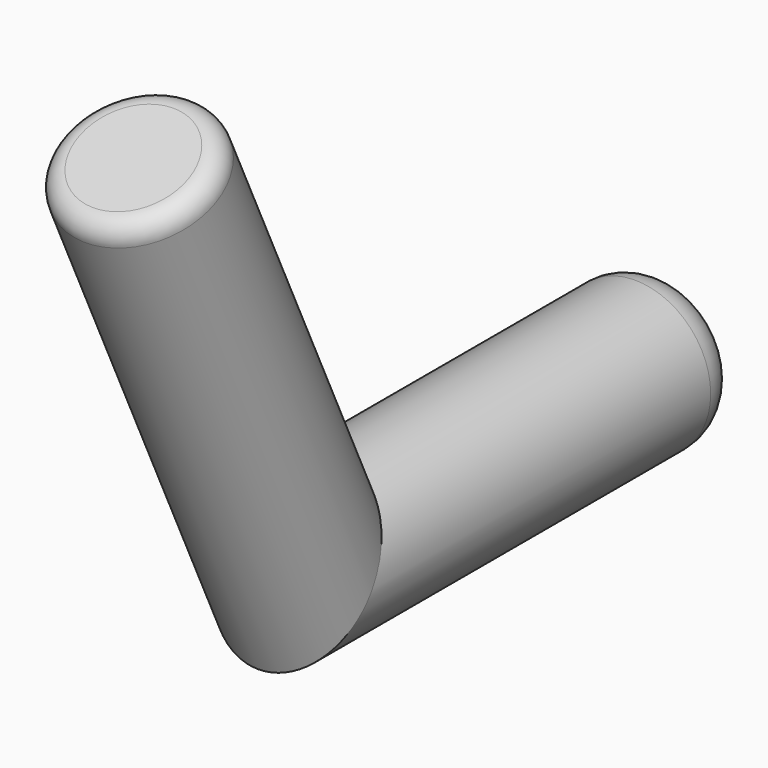
from build123d import *

# Parameters (mm, degrees)
F0_R = 1.875
F3_R = 1
F4_R = 0.5


with BuildPart() as f2:
    # F2: sweep along a path in F1
    with BuildLine(Plane.YZ) as f2_path:
        Line((0, 0), (-11.5, 0))
        Line((-11.5, 0), (-16.5714191409, 10.8756934444))
    # F0 (on Front) → F2 (sweep)
    with BuildSketch(Plane.XZ):
        Circle(F0_R)
    sweep(path=f2_path.line, transition=Transition.RIGHT)

    # F3
    f3_edges = [f2.edges().sort_by_distance(p)[0] for p in [
        (-1.875, 0, 0),
    ]]
    fillet(f3_edges, radius=F3_R)

    # F4
    f4_edges = [f2.edges().sort_by_distance(p)[0] for p in [
        (-1.875, -16.571419, 10.875693),
    ]]
    fillet(f4_edges, radius=F4_R)


solid = f2.part
